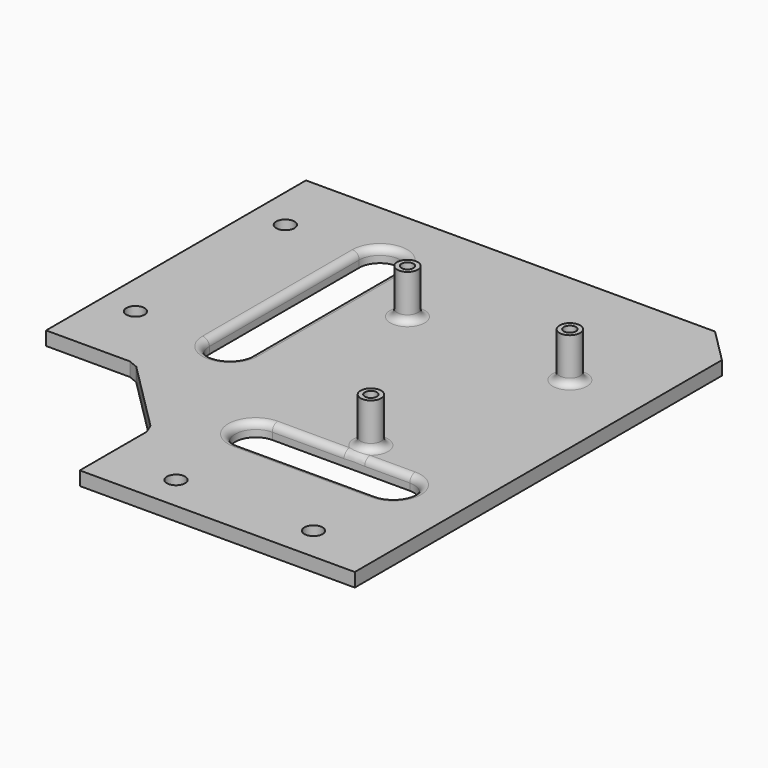
from build123d import *

# Parameters (mm, degrees)
SKETCH_R      = 2.65
PAD_DEPTH     = 4
SKETCH001_R   = 3
SKETCH001_R_2 = 1.75
PAD001_DEPTH  = 13
CHAMFER_SIZE  = 10
FILLET_R      = 2
POCKET_DEPTH  = 5
FILLET001_R   = 2


with BuildPart() as part:
    # Sketch → Pad (new body)
    with BuildSketch(Plane.XY):
        Polygon((0, 49), (24.376412, 49), (27.14805, 47.85195), (47.85195, 27.14805), (49, 24.376412), (49, 0), (129, 0), (129, 143.5), (0, 143.5), align=None)
        with Locations((10, 123.5)):
            Circle(SKETCH_R, mode=Mode.SUBTRACT)
        with Locations((10, 69)):
            Circle(SKETCH_R, mode=Mode.SUBTRACT)
        with Locations((69, 10)):
            Circle(SKETCH_R, mode=Mode.SUBTRACT)
        with Locations((109, 10)):
            Circle(SKETCH_R, mode=Mode.SUBTRACT)
    extrude(amount=-PAD_DEPTH)

    # Sketch001 (on Face14 of Pad) → Pad001 (join)
    with BuildSketch(Plane.XY):
        with Locations((59.87, 105.57)):
            Circle(SKETCH001_R)
        with Locations((59.87, 105.57)):
            Circle(SKETCH001_R_2, mode=Mode.SUBTRACT)
        with Locations((108.13, 104.3)):
            Circle(SKETCH001_R)
        with Locations((108.13, 104.3)):
            Circle(SKETCH001_R_2, mode=Mode.SUBTRACT)
        with Locations((92.89, 51)):
            Circle(SKETCH001_R)
        with Locations((92.89, 51)):
            Circle(SKETCH001_R_2, mode=Mode.SUBTRACT)
    extrude(amount=PAD001_DEPTH)

    # Chamfer
    chamfer_edges = [part.edges().sort_by_distance(p)[0] for p in [
        (129, 143.5, -2),
    ]]
    chamfer(chamfer_edges, length=CHAMFER_SIZE)

    # Fillet
    fillet_edges = [part.edges().sort_by_distance(p)[0] for p in [
        (89.89, 51, 0),
        (56.87, 105.57, 0),
        (105.13, 104.3, 0),
    ]]
    fillet(fillet_edges, radius=FILLET_R)

    # Sketch003 (on Face2 of Chamfer) → Pocket (cut)
    with BuildSketch(Plane.XY):
        with BuildLine():
            ThreePointArc((31.5, 69), (37.5, 63), (43.5, 69))
            Line((43.5, 69), (43.5, 123.5))
            ThreePointArc((43.5, 123.5), (37.5, 129.5), (31.5, 123.5))
            Line((31.5, 69), (31.5, 123.5))
        make_face()
        with BuildLine():
            ThreePointArc((69, 45), (63, 39), (69, 33))
            Line((69, 33), (109, 33))
            ThreePointArc((109, 33), (115, 39), (109, 45))
            Line((69, 45), (109, 45))
        make_face()
    extrude(amount=-POCKET_DEPTH, mode=Mode.SUBTRACT)

    # Fillet001
    fillet001_edges = [part.edges().sort_by_distance(p)[0] for p in [
        (43.5, 96.25, 0),
        (89, 45, 0),
    ]]
    fillet(fillet001_edges, radius=FILLET001_R)


solid = part.part
